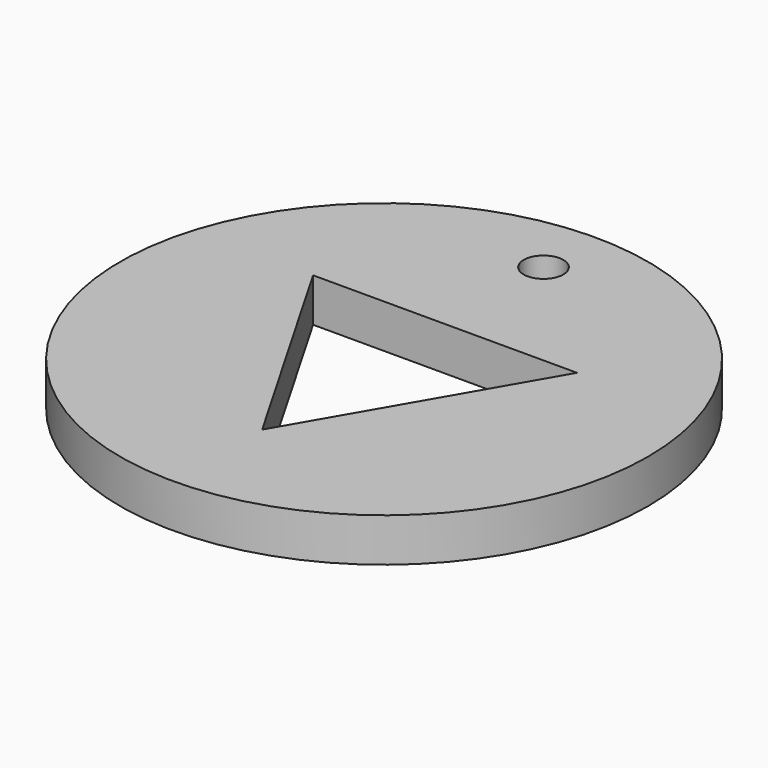
from build123d import *

# Parameters (mm, degrees)
CYLINDER_R      = 20
CYLINDER_DEPTH  = 3.3
SKETCH_R        = 1.5
POCKET_DEPTH    = 3.301
POCKET001_DEPTH = 3.301


with BuildPart() as part:
    # Cylinder → Cylinder (new body)
    with BuildSketch(Plane.XY):
        Circle(CYLINDER_R)
    extrude(amount=CYLINDER_DEPTH)

    # Sketch → Pocket (cut, through all)
    with BuildSketch(Plane.XY.offset(3.3)):
        with Locations((0, 15.1)):
            Circle(SKETCH_R)
    extrude(amount=-POCKET_DEPTH, mode=Mode.SUBTRACT)

    # Sketch001 → Pocket001 (cut, through all)
    with BuildSketch(Plane(origin=(0, 0, 0), x_dir=(1, 0, 0), z_dir=(0, 0, -1))):
        Polygon((0, 11.547005), (-10, -5.773503), (10, -5.773503), align=None)
    extrude(amount=-POCKET001_DEPTH, mode=Mode.SUBTRACT)


solid = part.part
